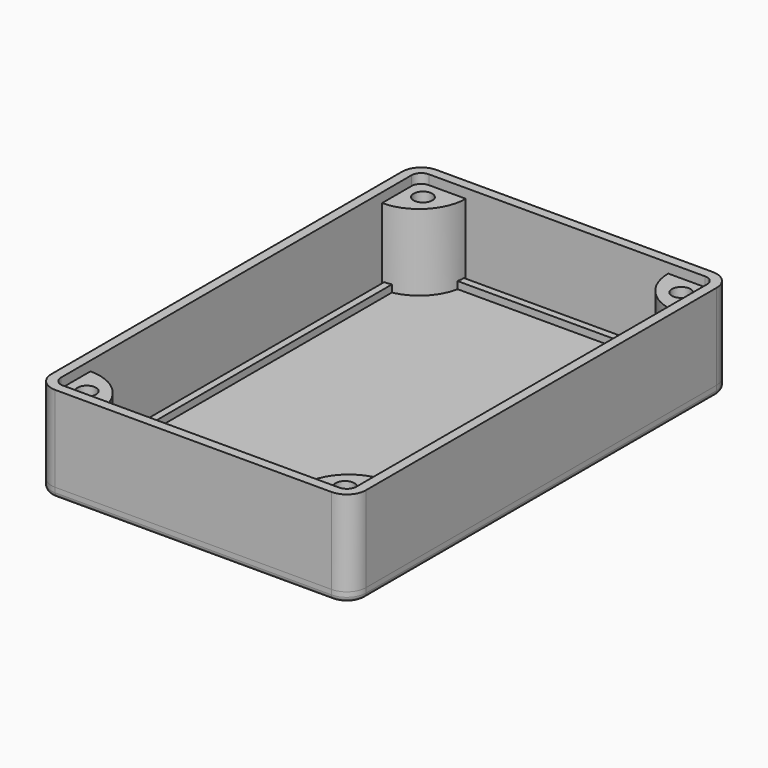
from build123d import *

# Parameters (mm, degrees)
PAD_DEPTH                     = 20
POCKET_DEPTH                  = 18
SKETCH002_R                   = 1.95
PAD001_DEPTH                  = 16
SKETCH002_MIRRORED_2_R        = 1.95
PAD001_MIRRORED_2_DEPTH       = 16
FILLET_R                      = 1
PAD002_DEPTH                  = 2
PAD003_DEPTH                  = 1.5
POCKET001_DEPTH               = 1.5
SKETCH006_R                   = 1.5
PAD004_DEPTH                  = 1.5
SKETCH006_MIRRORED002_2_R     = 1.5
PAD004_MIRRORED002_2_DEPTH    = 1.5
SKETCH007_R                   = 1.5
POCKET002_DEPTH               = 2
SKETCH007_MIRRORED004_2_R     = 1.5
POCKET002_MIRRORED004_2_DEPTH = 2
FILLET001_R                   = 1
CHAMFER_SIZE                  = 1.98


with BuildPart() as main_box:
    # Sketch → Pad (new body)
    with BuildSketch(Plane.XY):
        with BuildLine():
            Line((-29, 50), (29, 50))
            ThreePointArc((33, 46), (31.828427, 48.828427), (29, 50))
            Line((33, 46), (33, -46))
            ThreePointArc((29, -50), (31.828427, -48.828427), (33, -46))
            Line((29, -50), (-29, -50))
            ThreePointArc((-33, -46), (-31.828427, -48.828427), (-29, -50))
            Line((-33, -46), (-33, 46))
            ThreePointArc((-29, 50), (-31.828427, 48.828427), (-33, 46))
        make_face()
    extrude(amount=PAD_DEPTH)

    # Sketch001 (on Face10 of Pad) → Pocket (cut)
    with BuildSketch(Plane.XY.offset(20)):
        with BuildLine():
            Line((-29, 48), (29, 48))
            ThreePointArc((31, 46), (30.414214, 47.414214), (29, 48))
            Line((31, 46), (31, -46))
            ThreePointArc((29, -48), (30.414214, -47.414214), (31, -46))
            Line((29, -48), (-29, -48))
            ThreePointArc((-31, -46), (-30.414214, -47.414214), (-29, -48))
            Line((-31, -46), (-31, 46))
            ThreePointArc((-29, 48), (-30.414214, 47.414214), (-31, 46))
        make_face()
    extrude(amount=-POCKET_DEPTH, mode=Mode.SUBTRACT)

    # Sketch002 (on Face19 of Pocket) → Pad001 (join)
    with BuildSketch(Plane.XY.offset(2)):
        with BuildLine():
            Line((-31, 38.25), (-31, 48))
            Line((-31, 48), (-21.25, 48))
            ThreePointArc((-31, 38.25), (-24.105709, 41.105709), (-21.25, 48))
        make_face()
        with Locations((-27.1, 44.1)):
            Circle(SKETCH002_R, mode=Mode.SUBTRACT)
    pad001 = extrude(amount=PAD001_DEPTH)

    # Sketch002 Mirrored 2 → Pad001 Mirrored 2 (add)
    with BuildSketch(Plane(origin=(0, 0, 2), x_dir=(-1, 0, 0), z_dir=(0, 0, -1))):
        with BuildLine():
            Line((-31, 38.25), (-31, 48))
            Line((-31, 48), (-21.25, 48))
            ThreePointArc((-31, 38.25), (-24.105709, 41.105709), (-21.25, 48))
        make_face()
        with Locations((-27.1, 44.1)):
            Circle(SKETCH002_MIRRORED_2_R, mode=Mode.SUBTRACT)
    pad001_mirrored_2 = extrude(amount=-PAD001_MIRRORED_2_DEPTH)

    # Mirrored001: Pad001, Pad001 Mirrored 2 across Sketch002 H_Axis
    add(pad001.mirror(Plane(origin=(0, 0, 2), x_dir=(0, 0, 1), z_dir=(0, 1, 0))))
    add(pad001_mirrored_2.mirror(Plane(origin=(0, 0, 2), x_dir=(0, 0, 1), z_dir=(0, 1, 0))))

    # Fillet
    fillet_edges = [main_box.edges().sort_by_distance(p)[0] for p in [
        (-33, 0, 0),
        (-31.828427, 48.828427, 0),
        (0, 50, 0),
        (31.828427, 48.828427, 0),
        (33, 0, 0),
        (31.828427, -48.828427, 0),
        (0, -50, 0),
        (-31.828427, -48.828427, 0),
    ]]
    fillet(fillet_edges, radius=FILLET_R)


with BuildPart() as main_lid:
    # Sketch003 → Pad002 (new body)
    with BuildSketch(Plane.XY):
        with BuildLine():
            Line((-29, 50), (29, 50))
            ThreePointArc((33, 46), (31.828427, 48.828427), (29, 50))
            Line((33, 46), (33, -46))
            ThreePointArc((29, -50), (31.828427, -48.828427), (33, -46))
            Line((29, -50), (-29, -50))
            ThreePointArc((-33, -46), (-31.828427, -48.828427), (-29, -50))
            Line((-33, -46), (-33, 46))
            ThreePointArc((-29, 50), (-31.828427, 48.828427), (-33, 46))
        make_face()
    extrude(amount=PAD002_DEPTH)

    # Sketch004 (on Face10 of Pad002) → Pad003 (join)
    with BuildSketch(Plane.XY.offset(2)):
        with BuildLine():
            Line((-28.6, 47.6), (28.6, 47.6))
            ThreePointArc((30.6, 45.6), (30.014214, 47.014214), (28.6, 47.6))
            Line((30.6, 45.6), (30.6, -45.6))
            ThreePointArc((28.6, -47.6), (30.014214, -47.014214), (30.6, -45.6))
            Line((28.6, -47.6), (-28.6, -47.6))
            ThreePointArc((-30.6, -45.6), (-30.014214, -47.014214), (-28.6, -47.6))
            Line((-30.6, -45.6), (-30.6, 45.6))
            ThreePointArc((-28.6, 47.6), (-30.014214, 47.014214), (-30.6, 45.6))
        make_face()
    extrude(amount=PAD003_DEPTH)

    # Sketch005 (on Face19 of Pad003) → Pocket001 (cut)
    with BuildSketch(Plane.XY.offset(3.5)):
        with BuildLine():
            Line((-28.1, 46.1), (28.1, 46.1))
            ThreePointArc((29.1, 45.1), (28.807107, 45.807107), (28.1, 46.1))
            Line((29.1, 45.1), (29.1, -45.1))
            ThreePointArc((28.1, -46.1), (28.807107, -45.807107), (29.1, -45.1))
            Line((28.1, -46.1), (-28.1, -46.1))
            ThreePointArc((-29.1, -45.1), (-28.807107, -45.807107), (-28.1, -46.1))
            Line((-29.1, -45.1), (-29.1, 45.1))
            ThreePointArc((-28.1, 46.1), (-28.807107, 45.807107), (-29.1, 45.1))
        make_face()
    extrude(amount=-POCKET001_DEPTH, mode=Mode.SUBTRACT)

    # Sketch006 (on Face28 of Pocket001) → Pad004 (join)
    with BuildSketch(Plane.XY.offset(2)):
        with BuildLine():
            Line((-29.5, 39), (-29.5, 46.5))
            Line((-29.5, 46.5), (-22, 46.5))
            ThreePointArc((-29.5, 39), (-24.196699, 41.196699), (-22, 46.5))
        make_face()
        with Locations((-27.1, 44.1)):
            Circle(SKETCH006_R, mode=Mode.SUBTRACT)
    pad004 = extrude(amount=PAD004_DEPTH)

    # Sketch006 Mirrored002 2 → Pad004 Mirrored002 2 (add)
    with BuildSketch(Plane(origin=(0, 0, 2), x_dir=(-1, 0, 0), z_dir=(0, 0, -1))):
        with BuildLine():
            Line((-29.5, 39), (-29.5, 46.5))
            Line((-29.5, 46.5), (-22, 46.5))
            ThreePointArc((-29.5, 39), (-24.196699, 41.196699), (-22, 46.5))
        make_face()
        with Locations((-27.1, 44.1)):
            Circle(SKETCH006_MIRRORED002_2_R, mode=Mode.SUBTRACT)
    pad004_mirrored002_2 = extrude(amount=-PAD004_MIRRORED002_2_DEPTH)

    # Mirrored003: Pad004, Pad004 Mirrored002 2 across Sketch006 H_Axis
    add(pad004.mirror(Plane(origin=(0, 0, 2), x_dir=(0, 0, 1), z_dir=(0, 1, 0))))
    add(pad004_mirrored002_2.mirror(Plane(origin=(0, 0, 2), x_dir=(0, 0, 1), z_dir=(0, 1, 0))))

    # Sketch007 (on Face30 of MultiTransform001) → Pocket002 (cut)
    with BuildSketch(Plane.XY.offset(2)):
        with Locations((-27.1, 44.1)):
            Circle(SKETCH007_R)
    pocket002 = extrude(amount=-POCKET002_DEPTH, mode=Mode.SUBTRACT)

    # Sketch007 Mirrored004 2 → Pocket002 Mirrored004 2 (cut)
    with BuildSketch(Plane(origin=(0, 0, 2), x_dir=(-1, 0, 0), z_dir=(0, 0, -1))):
        with Locations((-27.1, 44.1)):
            Circle(SKETCH007_MIRRORED004_2_R)
    pocket002_mirrored004_2 = extrude(amount=POCKET002_MIRRORED004_2_DEPTH, mode=Mode.SUBTRACT)

    # Mirrored005: Pocket002, Pocket002 Mirrored004 2 across Sketch007 H_Axis
    add(pocket002.mirror(Plane(origin=(0, 0, 2), x_dir=(0, 0, 1), z_dir=(0, 1, 0))), mode=Mode.SUBTRACT)
    add(pocket002_mirrored004_2.mirror(Plane(origin=(0, 0, 2), x_dir=(0, 0, 1), z_dir=(0, 1, 0))), mode=Mode.SUBTRACT)

    # Fillet001
    fillet001_edges = [main_lid.edges().sort_by_distance(p)[0] for p in [
        (33, 0, 0),
        (31.828427, 48.828427, 0),
        (0, 50, 0),
        (-31.828427, 48.828427, 0),
        (-33, 0, 0),
        (-31.828427, -48.828427, 0),
        (0, -50, 0),
        (31.828427, -48.828427, 0),
    ]]
    fillet(fillet001_edges, radius=FILLET001_R)

    # Chamfer
    chamfer_edges = [main_lid.edges().sort_by_distance(p)[0] for p in [
        (28.6, 44.1, 0),
        (-28.6, 44.1, 0),
        (-28.6, -44.1, 0),
        (28.6, -44.1, 0),
    ]]
    chamfer(chamfer_edges, length=CHAMFER_SIZE)


solid = Compound([main_box.part, main_lid.part])
